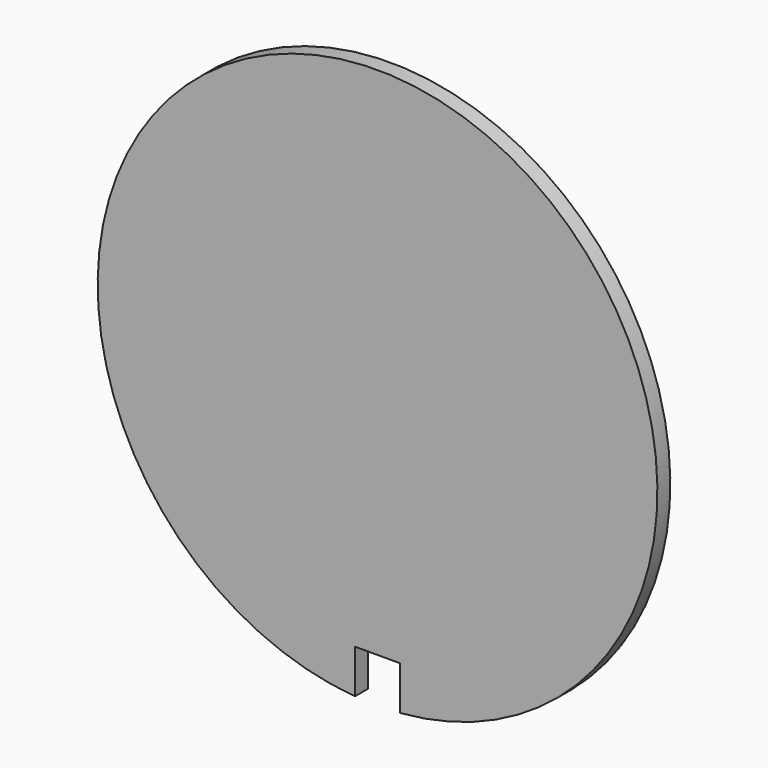
from build123d import *

# Parameters (mm, degrees)
SKETCH007_R     = 52
PAD004_DEPTH    = 1.5
SKETCH008_R     = 25.5
POCKET001_DEPTH = 0.7
SKETCH010_W     = 8.4
SKETCH010_H     = 9
POCKET002_DEPTH = 10


with BuildPart() as part:
    # Sketch007 → Pad004 (new body, symmetric)
    with BuildSketch(Plane.XZ):
        Circle(SKETCH007_R)
    extrude(amount=PAD004_DEPTH, both=True)

    # Sketch008 (on Face2 of Pad004) → Pocket001 (cut)
    with BuildSketch(Plane(origin=(0, 1.5, 0), x_dir=(1, 0, 0), z_dir=(0, 1, 0))):
        Circle(SKETCH008_R)
    extrude(amount=-POCKET001_DEPTH, mode=Mode.SUBTRACT)

    # Sketch010 (on Face3 of Pocket001) → Pocket002 (cut)
    with BuildSketch(Plane.XZ.offset(1.5)):
        with Locations((0, -48.2)):
            Rectangle(SKETCH010_W, SKETCH010_H)
    extrude(amount=-POCKET002_DEPTH, mode=Mode.SUBTRACT)


solid = part.part
